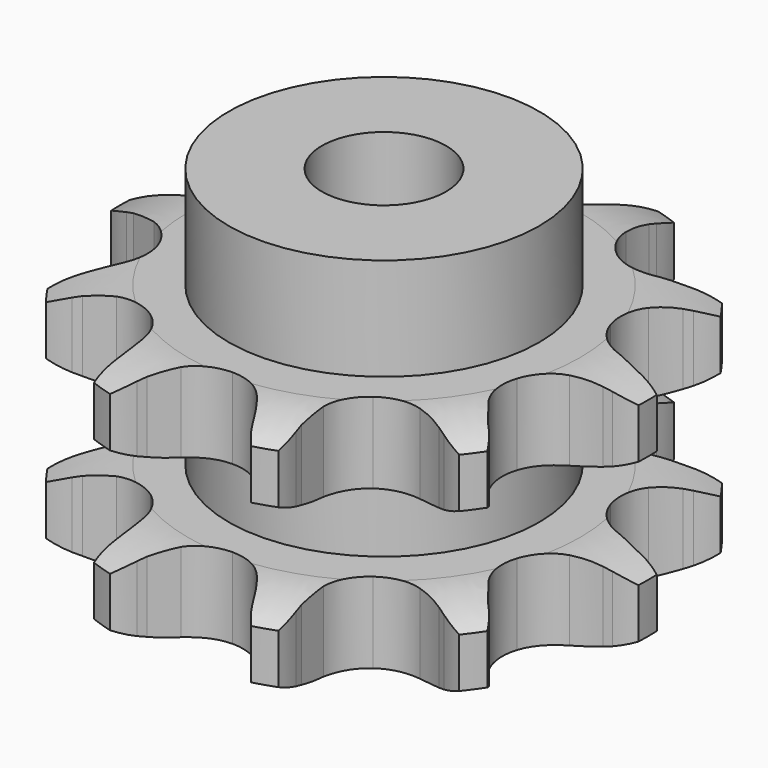
from build123d import *

# Parameters (mm, degrees)
PAD_DEPTH         = 15.4
SKETCH001_R       = 10
PAD001_DEPTH      = 22
SKETCH002_R       = 4
POCKET_DEPTH      = 0.001
POCKET_DEPTH_BACK = -22.001


with BuildPart() as part:
    # Sprocket → Pad (new body)
    with BuildSketch(Plane.XY):
        with BuildLine():
            ThreePointArc((-5.600971, 17.238017), (-4.532726, 16.362923), (-3.721848, 15.245152))
            Line((-3.721848, 15.245152), (-3.461214, 14.767115))
            ThreePointArc((-3.461214, 14.767115), (-2.988984, 14.002509), (-2.436938, 13.293376))
            ThreePointArc((-2.436938, 13.293376), (-1.339034, 12.473532), (0, 12.182799))
            ThreePointArc((0, 12.182799), (1.339034, 12.473532), (2.436938, 13.293376))
            ThreePointArc((2.436938, 13.293376), (2.988984, 14.002509), (3.461214, 14.767115))
            Line((3.461214, 14.767115), (3.721848, 15.245152))
            ThreePointArc((3.721848, 15.245152), (4.532726, 16.362923), (5.600971, 17.238017))
            ThreePointArc((5.600971, 17.238017), (5.950833, 15.902153), (5.949837, 14.521235))
            Line((5.949837, 14.521235), (5.879711, 13.981297))
            ThreePointArc((5.879711, 13.981297), (5.81233, 13.085148), (5.842126, 12.186963))
            ThreePointArc((5.842126, 12.186963), (6.248457, 10.878364), (7.160869, 9.856091))
            ThreePointArc((7.160869, 9.856091), (8.415059, 9.304234), (9.785175, 9.32217))
            Line((9.785175, 9.32217), (11.480073, 9.912396))
            ThreePointArc((11.480073, 9.912396), (11.72408, 10.033198), (11.971914, 10.14594))
            ThreePointArc((11.971914, 10.14594), (13.284938, 10.573614), (14.663533, 10.65368))
            ThreePointArc((14.663533, 10.65368), (14.161376, 9.3673), (13.348887, 8.250699))
            Line((13.348887, 8.250699), (12.974787, 7.8551))
            ThreePointArc((12.974787, 7.8551), (12.393531, 7.169706), (11.889696, 6.425545))
            ThreePointArc((11.889696, 6.425545), (11.449249, 5.12803), (11.58653, 3.764692))
            ThreePointArc((11.58653, 3.764692), (12.276818, 2.581036), (13.395807, 1.790213))
            Line((13.395807, 1.790213), (15.113935, 1.271479))
            ThreePointArc((15.113935, 1.271479), (15.382346, 1.225786), (15.649116, 1.171323))
            ThreePointArc((15.649116, 1.171323), (16.962754, 0.745543), (18.125123, 0))
            ThreePointArc((18.125123, 0), (16.962754, -0.745543), (15.649116, -1.171323))
            Line((15.649116, -1.171323), (15.113935, -1.271479))
            ThreePointArc((15.113935, -1.271479), (14.240824, -1.484321), (13.395807, -1.790213))
            ThreePointArc((13.395807, -1.790213), (12.276818, -2.581036), (11.58653, -3.764692))
            ThreePointArc((11.58653, -3.764692), (11.449249, -5.12803), (11.889696, -6.425545))
            Line((11.889696, -6.425545), (12.974787, -7.8551))
            ThreePointArc((12.974787, -7.8551), (13.165078, -8.049834), (13.348887, -8.250699))
            ThreePointArc((13.348887, -8.250699), (14.161376, -9.3673), (14.663533, -10.65368))
            ThreePointArc((14.663533, -10.65368), (13.284938, -10.573614), (11.971914, -10.14594))
            Line((11.971914, -10.14594), (11.480073, -9.912396))
            ThreePointArc((11.480073, -9.912396), (10.648607, -9.571387), (9.785175, -9.32217))
            ThreePointArc((9.785175, -9.32217), (8.415059, -9.304234), (7.160869, -9.856091))
            ThreePointArc((7.160869, -9.856091), (6.248457, -10.878364), (5.842126, -12.186963))
            Line((5.842126, -12.186963), (5.879711, -13.981297))
            ThreePointArc((5.879711, -13.981297), (5.919198, -14.250691), (5.949837, -14.521235))
            ThreePointArc((5.949837, -14.521235), (5.950833, -15.902153), (5.600971, -17.238017))
            ThreePointArc((5.600971, -17.238017), (4.532726, -16.362923), (3.721848, -15.245152))
            Line((3.721848, -15.245152), (3.461214, -14.767115))
            ThreePointArc((3.461214, -14.767115), (2.988984, -14.002509), (2.436938, -13.293376))
            ThreePointArc((2.436938, -13.293376), (1.339034, -12.473532), (0, -12.182799))
            ThreePointArc((0, -12.182799), (-1.339034, -12.473532), (-2.436938, -13.293376))
            Line((-2.436938, -13.293376), (-3.461214, -14.767115))
            ThreePointArc((-3.461214, -14.767115), (-3.587614, -15.008269), (-3.721848, -15.245152))
            ThreePointArc((-3.721848, -15.245152), (-4.532726, -16.362923), (-5.600971, -17.238017))
            ThreePointArc((-5.600971, -17.238017), (-5.950833, -15.902153), (-5.949837, -14.521235))
            Line((-5.949837, -14.521235), (-5.879711, -13.981297))
            ThreePointArc((-5.879711, -13.981297), (-5.81233, -13.085148), (-5.842126, -12.186963))
            ThreePointArc((-5.842126, -12.186963), (-6.248457, -10.878364), (-7.160869, -9.856091))
            ThreePointArc((-7.160869, -9.856091), (-8.415059, -9.304234), (-9.785175, -9.32217))
            Line((-9.785175, -9.32217), (-11.480073, -9.912396))
            ThreePointArc((-11.480073, -9.912396), (-11.72408, -10.033198), (-11.971914, -10.14594))
            ThreePointArc((-11.971914, -10.14594), (-13.284938, -10.573614), (-14.663533, -10.65368))
            ThreePointArc((-14.663533, -10.65368), (-14.161376, -9.3673), (-13.348887, -8.250699))
            Line((-13.348887, -8.250699), (-12.974787, -7.8551))
            ThreePointArc((-12.974787, -7.8551), (-12.393531, -7.169706), (-11.889696, -6.425545))
            ThreePointArc((-11.889696, -6.425545), (-11.449249, -5.12803), (-11.58653, -3.764692))
            ThreePointArc((-11.58653, -3.764692), (-12.276818, -2.581036), (-13.395807, -1.790213))
            Line((-13.395807, -1.790213), (-15.113935, -1.271479))
            ThreePointArc((-15.113935, -1.271479), (-15.382346, -1.225786), (-15.649116, -1.171323))
            ThreePointArc((-15.649116, -1.171323), (-16.962754, -0.745543), (-18.125123, 0))
            ThreePointArc((-18.125123, 0), (-16.962754, 0.745543), (-15.649116, 1.171323))
            Line((-15.649116, 1.171323), (-15.113935, 1.271479))
            ThreePointArc((-15.113935, 1.271479), (-14.240824, 1.484321), (-13.395807, 1.790213))
            ThreePointArc((-13.395807, 1.790213), (-12.276818, 2.581036), (-11.58653, 3.764692))
            ThreePointArc((-11.58653, 3.764692), (-11.449249, 5.12803), (-11.889696, 6.425545))
            Line((-11.889696, 6.425545), (-12.974787, 7.8551))
            ThreePointArc((-12.974787, 7.8551), (-13.165078, 8.049834), (-13.348887, 8.250699))
            ThreePointArc((-13.348887, 8.250699), (-14.161376, 9.3673), (-14.663533, 10.65368))
            ThreePointArc((-14.663533, 10.65368), (-13.284938, 10.573614), (-11.971914, 10.14594))
            Line((-11.971914, 10.14594), (-11.480073, 9.912396))
            ThreePointArc((-11.480073, 9.912396), (-10.648607, 9.571387), (-9.785175, 9.32217))
            ThreePointArc((-9.785175, 9.32217), (-8.415059, 9.304234), (-7.160869, 9.856091))
            ThreePointArc((-7.160869, 9.856091), (-6.248457, 10.878364), (-5.842126, 12.186963))
            Line((-5.842126, 12.186963), (-5.879711, 13.981297))
            ThreePointArc((-5.879711, 13.981297), (-5.919198, 14.250691), (-5.949837, 14.521235))
            ThreePointArc((-5.949837, 14.521235), (-5.950833, 15.902153), (-5.600971, 17.238017))
        make_face()
    extrude(amount=PAD_DEPTH)

    # Sketch → Groove (revolve, cut)
    with BuildSketch(Plane.XZ):
        with BuildLine():
            ThreePointArc((12.641101, 0), (14.877169, 0.253206), (17, 1))
            Line((17, 1), (17, 4.2))
            ThreePointArc((17, 4.2), (14.877169, 4.946794), (12.641101, 5.2))
            Line((10, 5.2), (12.641101, 5.2))
            Line((10, 10.2), (10, 5.2))
            Line((12.641101, 10.2), (10, 10.2))
            ThreePointArc((12.641101, 10.2), (14.877169, 10.453206), (17, 11.2))
            Line((17, 11.2), (17, 14.4))
            ThreePointArc((17, 14.4), (14.877169, 15.146794), (12.641101, 15.4))
            Line((12.641101, 15.4), (22.641101, 15.4))
            Line((22.641101, 15.4), (22.641101, 0))
            Line((12.641101, 0), (22.641101, 0))
        make_face()
    revolve(axis=Axis((0, 0, 0), (0, 0, 1)), mode=Mode.SUBTRACT)

    # Sketch001 → Pad001 (join)
    with BuildSketch(Plane.XY):
        Circle(SKETCH001_R)
    extrude(amount=PAD001_DEPTH)

    # Sketch002 → Pocket (cut, two sides)
    with BuildSketch(Plane.XY) as pocket_sk:
        Circle(SKETCH002_R)
    extrude(amount=-POCKET_DEPTH, mode=Mode.SUBTRACT)
    extrude(pocket_sk.sketch, amount=-POCKET_DEPTH_BACK, mode=Mode.SUBTRACT)


solid = part.part
